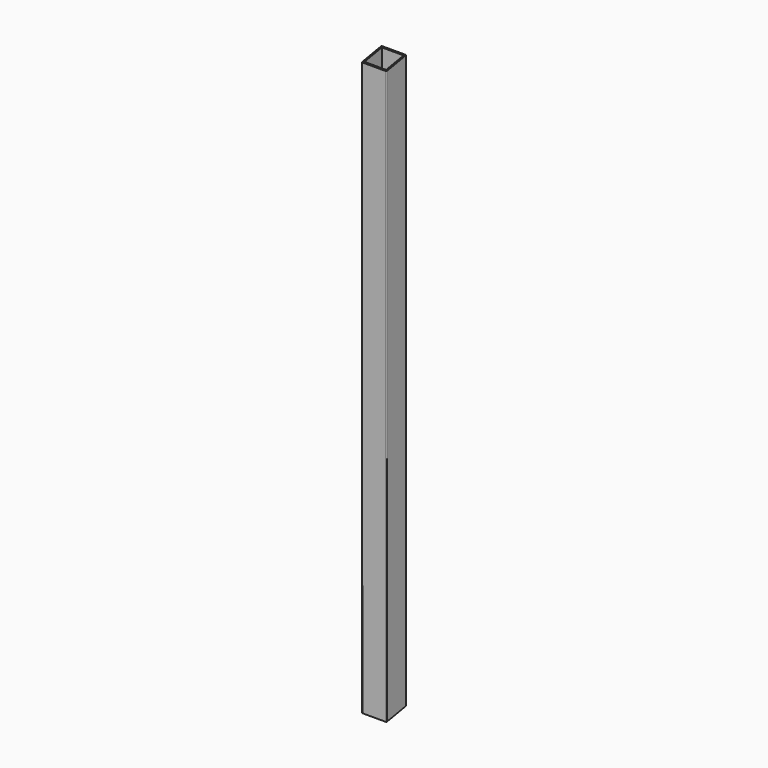
from build123d import *

# Parameters (mm, degrees)
SKETCH_W     = 25
SKETCH_H     = 25
SKETCH_W_2   = 22
SKETCH_H_2   = 22
PAD_DEPTH    = 584
FILLET_R     = 0.74
POCKET_DEPTH = 25.001


with BuildPart() as part:
    # Sketch → Pad (new body)
    with BuildSketch(Plane.XY):
        with Locations((12.5, 12.5)):
            Rectangle(SKETCH_W, SKETCH_H)
        with Locations((12.5, 12.5)):
            Rectangle(SKETCH_W_2, SKETCH_H_2, mode=Mode.SUBTRACT)
    extrude(amount=PAD_DEPTH)

    # Fillet
    fillet_edges = [part.edges().sort_by_distance(p)[0] for p in [
        (25, 0, 292),
        (0, 0, 292),
        (25, 25, 292),
        (0, 25, 292),
    ]]
    fillet(fillet_edges, radius=FILLET_R)

    # Sketch001 (on Face6 of Fillet) → Pocket (cut, through all)
    with BuildSketch(Plane(origin=(0, 0, 0), x_dir=(0, -1, 0), z_dir=(-1, 0, 0))):
        Polygon((0, 0), (-42.305785, 7.459651), (-25.0585, -14.483582), align=None)
        Polygon((-25, 584), (31.802426, 573.9842), (24.213916, 600.392365), align=None)
    extrude(amount=-POCKET_DEPTH, mode=Mode.SUBTRACT)


solid = part.part
